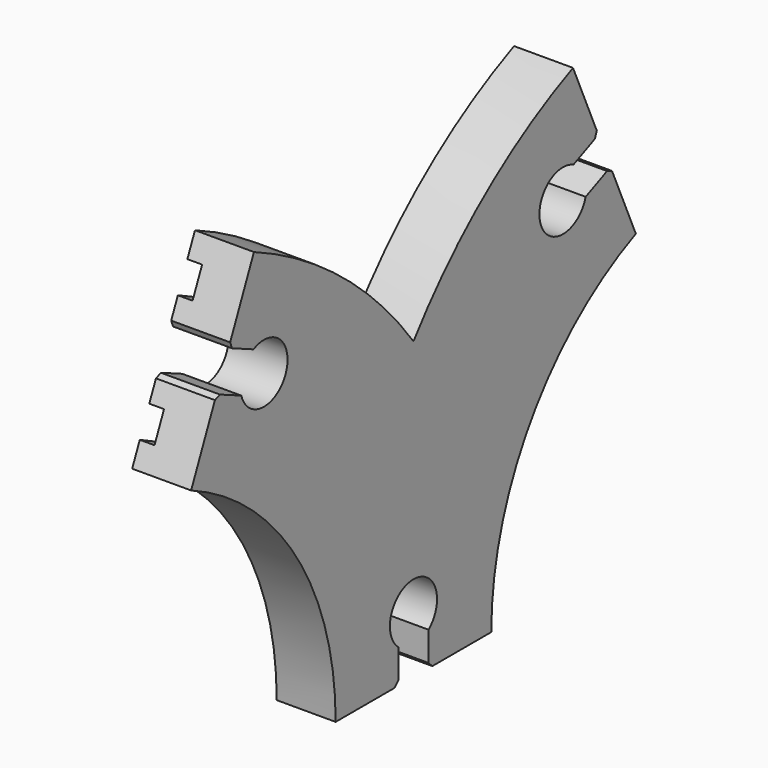
from build123d import *

# Parameters (mm, degrees)
F4_DEPTH  = 12.7
F5_SIZE   = 1.016
F8_W      = 3.175
F8_H      = 6.35
F12_DEPTH = 12.7
F13_SIZE  = 1.016


with BuildPart() as f2:
    # F2: sweep along a path in F1
    with BuildLine(Plane.YZ) as f2_path:
        ThreePointArc((0, 0), (-13.9895526568, 47.0829736144), (-51.4187773904, 78.8881166537))
    # F0 (on Top) → F2 (sweep)
    with BuildSketch(Plane.XY):
        Polygon((-2.9826171882, -15.875), (-2.9826171882, -20.955), (9.7173828118, -20.955), (9.7173828118, 20.955), (-2.9826171882, 20.955), (-2.9826171882, 15.875), (0.1923828118, 15.875), (0.1923828118, 9.525), (-2.9826171882, 9.525), (-2.9826171882, -9.525), (0.1923828118, -9.525), (0.1923828118, -15.875), align=None)
    sweep(path=f2_path.line)

    # F3 (on face) → F4 (cut, through all)
    with BuildSketch(Plane.YZ.offset(9.7173828118)):
        with BuildLine():
            Line((-4.064, 7.3128193311), (-4.064, 0))
            Line((-4.064, 0), (4.064, 0))
            Line((4.064, 0), (4.064, 7.3128193311))
            ThreePointArc((4.064, 7.3128193311), (0, 18.542), (-4.064, 7.3128193311))
        make_face()
        with BuildLine():
            Line((-43.0877289811, 79.6543117793), (-49.7782573242, 82.6062868909))
            Line((-49.7782573242, 82.6062868909), (-53.0592974567, 75.1699464166))
            Line((-53.0592974567, 75.1699464166), (-46.3687691136, 72.217971305))
            ThreePointArc((-46.3687691136, 72.217971305), (-34.4546256835, 71.4032438515), (-43.0877289811, 79.6543117793))
        make_face()
    extrude(amount=-F4_DEPTH, mode=Mode.SUBTRACT)

    # F5
    f5_edges = [f2.edges().sort_by_distance(p)[0] for p in [
        (3.367383, -53.059297, 75.169946),
        (3.367383, -49.778257, 82.606287),
        (3.367383, 4.064, 0),
        (3.367383, -4.064, 0),
    ]]
    chamfer(f5_edges, length=F5_SIZE)

    # F7: sweep along a path in F6
    with BuildLine(Plane.YZ) as f7_path:
        ThreePointArc((51.4187773904, 78.8881166537), (13.9895526568, 47.0829736144), (0, 0))
    # F0 (on Top) → F7 (sweep)
    with BuildSketch(Plane.XY):
        Polygon((-2.9826171882, -15.875), (-2.9826171882, -20.955), (9.7173828118, -20.955), (9.7173828118, 20.955), (-2.9826171882, 20.955), (-2.9826171882, 15.875), (0.1923828118, 15.875), (0.1923828118, 9.525), (-2.9826171882, 9.525), (-2.9826171882, -9.525), (0.1923828118, -9.525), (0.1923828118, -15.875), align=None)
    sweep(path=f7_path.line)

    # F9: sweep along a path in F9_path
    with BuildLine(Plane(origin=(-2.9826171882, 20.955, 0), x_dir=(0, 0, 1), z_dir=(1, 0, 0))) as f9_path:
        ThreePointArc((0, 0), (35.6406156079, -10.5897361719), (59.7163013685, -38.922708982))
    # F8 (on face) → F9 (sweep, cut)
    with BuildSketch(Plane(origin=(0, 0, 0), x_dir=(1, 0, 0), z_dir=(0, 0, -1))):
        with Locations((-1.3951171882, -12.7)):
            Rectangle(F8_W, F8_H)
        with Locations((-1.3951171882, 12.7)):
            Rectangle(F8_W, F8_H)
    sweep(path=f9_path.line, mode=Mode.SUBTRACT)

    # F10: sweep along a path in F10_path
    with BuildLine(Plane(origin=(-2.9826171882, -59.877708982, 59.7163013685), x_dir=(0, 0, 1), z_dir=(1, 0, 0))) as f10_path:
        ThreePointArc((0, 0), (-24.0756857607, -28.33297281), (-59.7163013685, -38.922708982))
    # F8 (on face) → F10 (sweep, cut)
    with BuildSketch(Plane(origin=(0, 0, 0), x_dir=(1, 0, 0), z_dir=(0, 0, -1))):
        with Locations((-1.3951171882, -12.7)):
            Rectangle(F8_W, F8_H)
        with Locations((-1.3951171882, 12.7)):
            Rectangle(F8_W, F8_H)
    sweep(path=f10_path.line, mode=Mode.SUBTRACT)

    # F11 (on face) → F12 (cut, through all)
    with BuildSketch(Plane.YZ.offset(9.7173828118)):
        with BuildLine():
            Line((-4.064, 0), (4.064, 0))
            Line((4.064, 0), (4.064, 7.3128193311))
            ThreePointArc((4.064, 7.3128193311), (0, 18.542), (-4.064, 7.3128193311))
            Line((-4.064, 7.3128193311), (-4.064, 0))
        make_face()
        with BuildLine():
            Line((46.3687691136, 72.217971305), (53.0592974567, 75.1699464166))
            Line((53.0592974567, 75.1699464166), (49.7782573242, 82.6062868909))
            Line((49.7782573242, 82.6062868909), (43.0877289811, 79.6543117793))
            ThreePointArc((43.0877289811, 79.6543117793), (34.4546256835, 71.4032438515), (46.3687691136, 72.217971305))
        make_face()
    extrude(amount=-F12_DEPTH, mode=Mode.SUBTRACT)

    # F13
    f13_edges = [f2.edges().sort_by_distance(p)[0] for p in [
        (3.367383, 4.064, 0),
        (3.367383, -4.064, 0),
        (3.367383, 53.059297, 75.169946),
        (3.367383, 49.778257, 82.606287),
    ]]
    chamfer(f13_edges, length=F13_SIZE)


solid = f2.part
